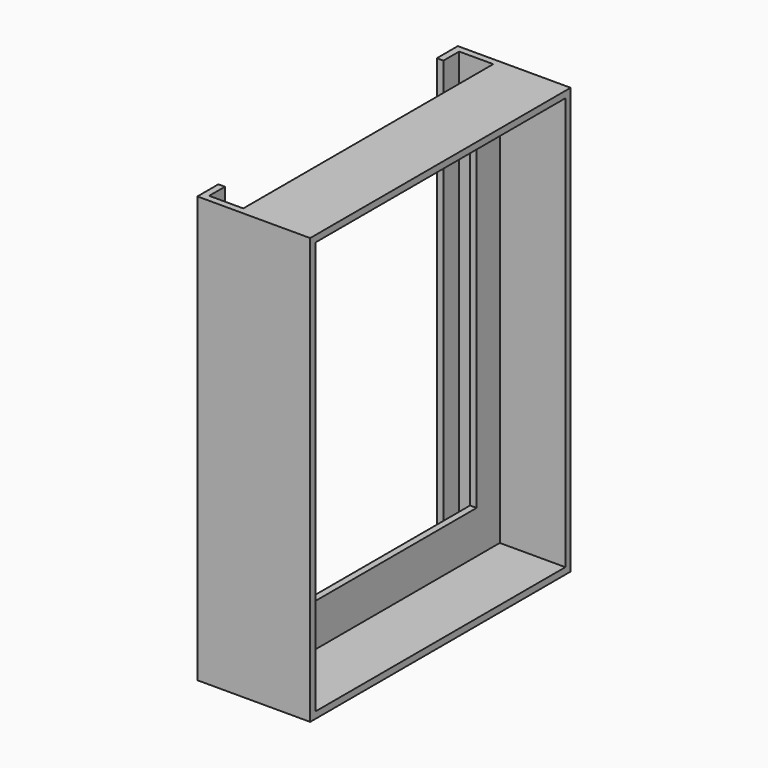
from build123d import *

# Parameters (mm, degrees)
F0_W        = 126.111
F0_H        = 164.9984
F0_W_2      = 121.031
F0_H_2      = 159.9184
F1_DEPTH    = 25.4
F1_FACE_W   = 126.111
F1_FACE_H   = 164.9984
F1_FACE_W_2 = 121.031
F1_FACE_H_2 = 159.9184
F2_DEPTH    = 2.54
F4_DEPTH    = 164.9984
F5_W        = 98.6028
F5_H        = 127.0508
F6_DEPTH    = 25.4


with BuildPart() as f1:
    # F0 (on Right) → F1 (new body)
    with BuildSketch(Plane.YZ):
        with Locations((27.1188945978, -12.7647293852)):
            Rectangle(F0_W, F0_H)
        with Locations((27.1188945978, -12.7647293852)):
            Rectangle(F0_W_2, F0_H_2, mode=Mode.SUBTRACT)
    extrude(amount=F1_DEPTH)

    # F1_face (on face) + F0 (on Right) → F2 (join)
    with BuildSketch(Plane(origin=(0, 27.1188945978, -12.7647293852), x_dir=(0, 1, 0), z_dir=(-1, 0, 0))):
        Rectangle(F1_FACE_W, F1_FACE_H)
        Rectangle(F1_FACE_W_2, F1_FACE_H_2, mode=Mode.SUBTRACT)
    with BuildSketch(Plane.YZ):
        with Locations((27.1188945978, -12.7647293852)):
            Rectangle(F0_W, F0_H)
        with Locations((27.1188945978, -12.7647293852)):
            Rectangle(F0_W_2, F0_H_2, mode=Mode.SUBTRACT)
        with Locations((27.1188945978, -12.7647293852)):
            Rectangle(F0_W_2, F0_H_2)
    extrude(amount=F2_DEPTH, dir=(-1, 0, 0))

    # F3 (on face) → F4 (join)
    with BuildSketch(Plane.XY.offset(69.7344706148)):
        Polygon((-2.54, 87.6343945978), (-2.54, 90.1743945978), (-18.288, 90.1743945978), (-18.288, 80.0143945978), (-15.748, 80.0143945978), (-15.748, 87.6343945978), align=None)
        Polygon((-2.54, -35.9366054022), (-2.54, -33.4024998063), (-15.748, -33.4024998063), (-15.748, -25.7766054022), (-18.288, -25.7766054022), (-18.288, -35.9366054022), align=None)
    extrude(amount=-F4_DEPTH)

    # F5 (on face) → F6 (cut)
    with BuildSketch(Plane.YZ):
        with Locations((27.1188945978, -12.6885293852)):
            Rectangle(F5_W, F5_H)
    extrude(amount=-F6_DEPTH, mode=Mode.SUBTRACT)


solid = f1.part
